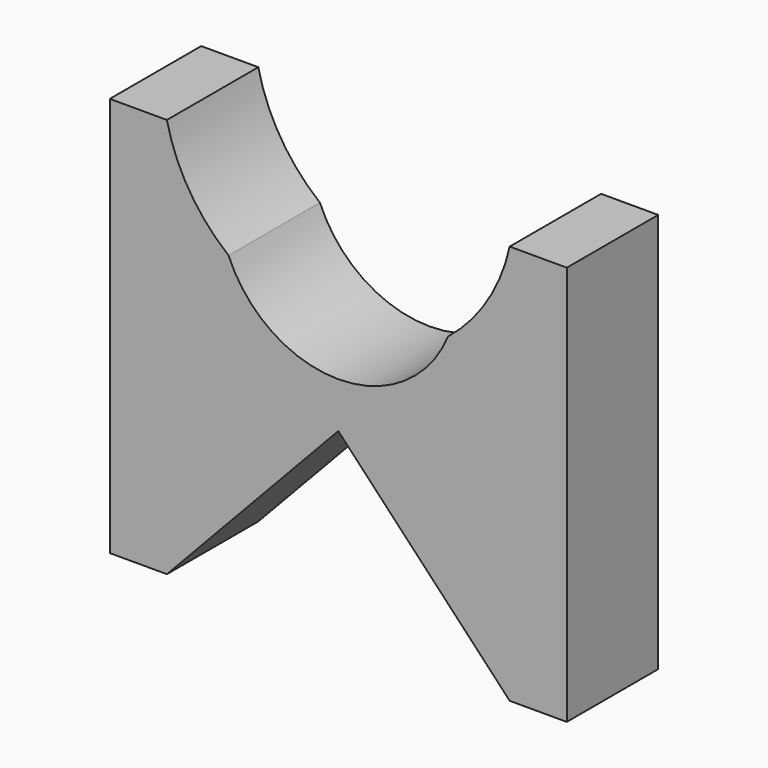
from build123d import *

# Parameters (mm, degrees)
F1_DEPTH = 12.7


with BuildPart() as f1:
    # F0 (on Front) → F1 (new body)
    with BuildSketch(Plane.XZ):
        with BuildLine():
            Line((19.05, -22.225), (25.4, -22.225))
            Line((25.4, -22.225), (25.4, 22.225))
            Line((25.4, 22.225), (19.05, 22.225))
            ThreePointArc((19.05, 22.225), (16.56975, 16.124724), (12.200908, 11.197431))
            ThreePointArc((12.200908, 11.197431), (0, 3.048), (-12.200908, 11.197431))
            ThreePointArc((-12.200908, 11.197431), (-16.56975, 16.124724), (-19.05, 22.225))
            Line((-19.05, 22.225), (-25.4, 22.225))
            Line((-25.4, 22.225), (-25.4, -22.225))
            Line((-25.4, -22.225), (-19.05, -22.225))
            Line((-19.05, -22.225), (0, -2.018608))
            Line((0, -2.018608), (19.05, -22.225))
        make_face()
    extrude(amount=F1_DEPTH)


solid = f1.part
